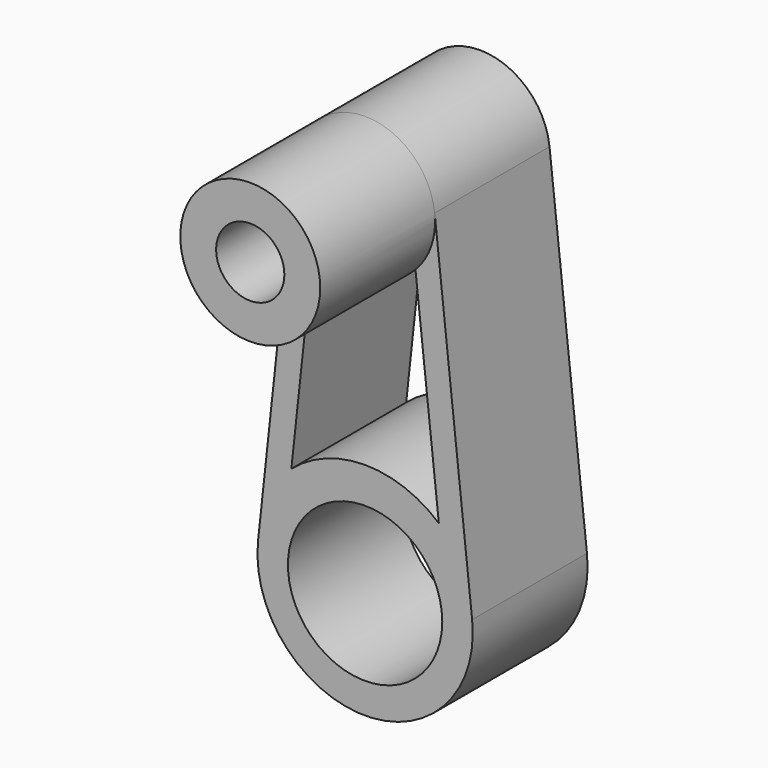
from build123d import *

# Parameters (mm, degrees)
F0_R     = 2.15
F0_R_2   = 0.95
F1_DEPTH = 4
F3_DEPTH = 25
F4_R     = 1.95
F4_R_2   = 0.95
F5_DEPTH = 4


with BuildPart() as f1:
    # F0 (on Front) → F1 (new body)
    with BuildSketch(Plane.XZ):
        with BuildLine():
            Line((-1.9386593306, 9.96), (-2.9825528163, 0.3230769231))
            ThreePointArc((-2.9825528163, 0.3230769231), (0, -3), (2.9825528163, 0.3230769231))
            Line((2.9825528163, 0.3230769231), (1.9386593306, 9.96))
            ThreePointArc((1.9386593306, 9.96), (0, 11.7), (-1.9386593306, 9.96))
        make_face()
        Circle(F0_R, mode=Mode.SUBTRACT)
        with Locations((0, 9.75)):
            Circle(F0_R_2, mode=Mode.SUBTRACT)
    extrude(amount=F1_DEPTH)

    # F2 (on face) → F3 (cut)
    with BuildSketch(Plane.XZ.offset(4)):
        with BuildLine():
            ThreePointArc((1.3896030661, 8.5287288103), (0, 7.9), (-1.3896030661, 8.5287288103))
            Line((-1.3896030661, 8.5287288103), (-2.0548350523, 2.3874993))
            ThreePointArc((-2.0548350523, 2.3874993), (0, 3.15), (2.0548350523, 2.3874993))
            Line((2.0548350523, 2.3874993), (1.3896030661, 8.5287288103))
        make_face()
    extrude(amount=-F3_DEPTH, mode=Mode.SUBTRACT)

    # F4 (on face) → F5 (join)
    with BuildSketch(Plane.XZ.offset(4)):
        with Locations((0, 9.75)):
            Circle(F4_R)
        with Locations((0, 9.75)):
            Circle(F4_R_2, mode=Mode.SUBTRACT)
    extrude(amount=F5_DEPTH)


solid = f1.part
